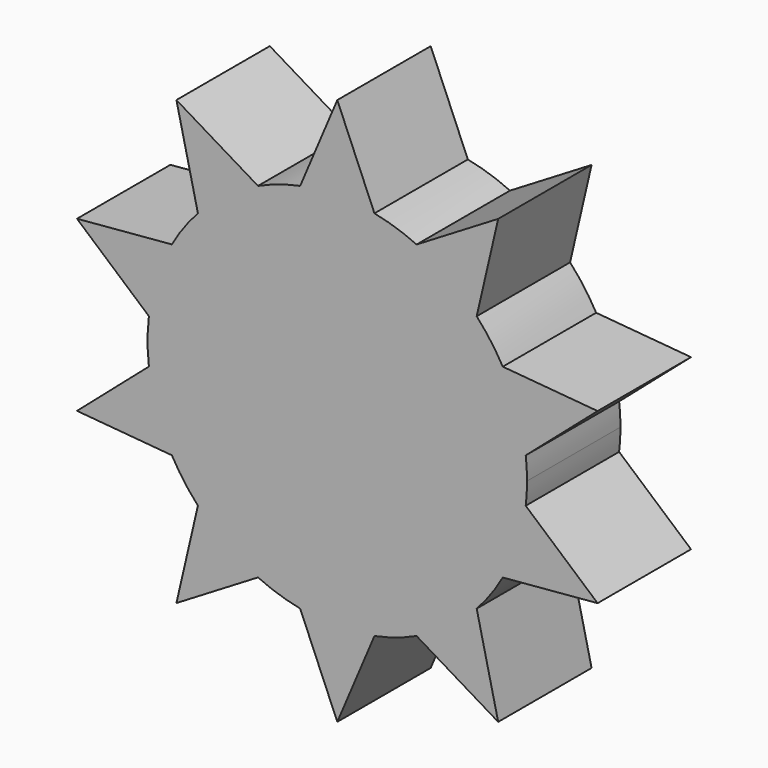
from build123d import *

# Parameters (mm, degrees)
F1_DEPTH = 2.54


with BuildPart() as f1:
    # F0 (on Front) → F1 (new body)
    with BuildSketch(Plane.XZ):
        with BuildLine():
            ThreePointArc((10.4492020023, 5.8675073116), (10.4704194273, 6.1083390955), (10.4775, 6.35))
            ThreePointArc((10.4775, 6.35), (10.4704194273, 6.5916609045), (10.4492020023, 6.8324926884))
            Line((10.4492020023, 6.8324926884), (9.9499261698, 8.3691056985))
            ThreePointArc((9.9499261698, 8.3691056985), (9.6892176443, 8.7760836288), (9.3827219966, 9.1497952677))
            Line((9.3827219966, 9.1497952677), (8.0756008975, 10.0994743355))
            ThreePointArc((8.0756008975, 10.0994743355), (7.6254676443, 10.275485771), (7.1578452667, 10.3976712163))
            Line((7.1578452667, 10.3976712163), (5.5421547333, 10.3976712163))
            ThreePointArc((5.5421547333, 10.3976712163), (5.0745323557, 10.275485771), (4.6243991025, 10.0994743355))
            Line((4.6243991025, 10.0994743355), (3.3172780034, 9.1497952677))
            ThreePointArc((3.3172780034, 9.1497952677), (3.0107823557, 8.7760836288), (2.7500738302, 8.3691056985))
            Line((2.7500738302, 8.3691056985), (2.2507979977, 6.8324926884))
            ThreePointArc((2.2507979977, 6.8324926884), (2.2225, 6.35), (2.2507979977, 5.8675073116))
            Line((2.2507979977, 5.8675073116), (2.7500738302, 4.3308943015))
            ThreePointArc((2.7500738302, 4.3308943015), (3.0107823557, 3.9239163712), (3.3172780034, 3.5502047323))
            Line((3.3172780034, 3.5502047323), (4.6243991025, 2.6005256645))
            ThreePointArc((4.6243991025, 2.6005256645), (5.0745323557, 2.424514229), (5.5421547333, 2.3023287837))
            Line((5.5421547333, 2.3023287837), (7.1578452667, 2.3023287837))
            ThreePointArc((7.1578452667, 2.3023287837), (7.6254676443, 2.424514229), (8.0756008975, 2.6005256645))
            Line((8.0756008975, 2.6005256645), (9.3827219966, 3.5502047323))
            ThreePointArc((9.3827219966, 3.5502047323), (9.6892176443, 3.9239163712), (9.9499261698, 4.3308943015))
            Line((9.9499261698, 4.3308943015), (10.4492020023, 5.8675073116))
        make_face()
        with BuildLine():
            Line((9.9499261698, 8.3691056985), (10.4492020023, 6.8324926884))
            ThreePointArc((10.4492020023, 6.8324926884), (10.275485771, 7.6254676443), (9.9499261698, 8.3691056985))
        make_face()
        with BuildLine():
            ThreePointArc((9.9499261698, 8.3691056985), (10.275485771, 7.6254676443), (10.4492020023, 6.8324926884))
            Line((10.4492020023, 6.8324926884), (12.0136955455, 8.1902462362))
            Line((12.0136955455, 8.1902462362), (9.9499261698, 8.3691056985))
        make_face()
        with BuildLine():
            Line((12.0136955455, 4.5097537638), (10.4492020023, 5.8675073116))
            ThreePointArc((10.4492020023, 5.8675073116), (10.275485771, 5.0745323557), (9.9499261698, 4.3308943015))
            Line((9.9499261698, 4.3308943015), (12.0136955455, 4.5097537638))
        make_face()
        with BuildLine():
            ThreePointArc((9.9499261698, 4.3308943015), (10.275485771, 5.0745323557), (10.4492020023, 5.8675073116))
            Line((10.4492020023, 5.8675073116), (9.9499261698, 4.3308943015))
        make_face()
        with BuildLine():
            Line((8.0756008975, 10.0994743355), (9.3827219966, 9.1497952677))
            ThreePointArc((9.3827219966, 9.1497952677), (8.7760836288, 9.6892176443), (8.0756008975, 10.0994743355))
        make_face()
        with BuildLine():
            ThreePointArc((8.0756008975, 10.0994743355), (8.7760836288, 9.6892176443), (9.3827219966, 9.1497952677))
            Line((9.3827219966, 9.1497952677), (9.8503563491, 11.1678271941))
            Line((9.8503563491, 11.1678271941), (8.0756008975, 10.0994743355))
        make_face()
        with BuildLine():
            Line((9.8503563491, 1.5321728059), (9.3827219966, 3.5502047323))
            ThreePointArc((9.3827219966, 3.5502047323), (8.7760836288, 3.0107823557), (8.0756008975, 2.6005256645))
            Line((8.0756008975, 2.6005256645), (9.8503563491, 1.5321728059))
        make_face()
        with BuildLine():
            ThreePointArc((8.0756008975, 2.6005256645), (8.7760836288, 3.0107823557), (9.3827219966, 3.5502047323))
            Line((9.3827219966, 3.5502047323), (8.0756008975, 2.6005256645))
        make_face()
        with BuildLine():
            Line((5.5421547333, 10.3976712163), (7.1578452667, 10.3976712163))
            ThreePointArc((7.1578452667, 10.3976712163), (6.35, 10.4775), (5.5421547333, 10.3976712163))
        make_face()
        with BuildLine():
            ThreePointArc((5.5421547333, 10.3976712163), (6.35, 10.4775), (7.1578452667, 10.3976712163))
            Line((7.1578452667, 10.3976712163), (6.35, 12.3051619157))
            Line((6.35, 12.3051619157), (5.5421547333, 10.3976712163))
        make_face()
        with BuildLine():
            Line((6.35, 0.3948380843), (7.1578452667, 2.3023287837))
            ThreePointArc((7.1578452667, 2.3023287837), (6.35, 2.2225), (5.5421547333, 2.3023287837))
            Line((5.5421547333, 2.3023287837), (6.35, 0.3948380843))
        make_face()
        with BuildLine():
            ThreePointArc((5.5421547333, 2.3023287837), (6.35, 2.2225), (7.1578452667, 2.3023287837))
            Line((7.1578452667, 2.3023287837), (5.5421547333, 2.3023287837))
        make_face()
        with BuildLine():
            Line((3.3172780034, 9.1497952677), (4.6243991025, 10.0994743355))
            ThreePointArc((4.6243991025, 10.0994743355), (3.9239163712, 9.6892176443), (3.3172780034, 9.1497952677))
        make_face()
        with BuildLine():
            ThreePointArc((3.3172780034, 9.1497952677), (3.9239163712, 9.6892176443), (4.6243991025, 10.0994743355))
            Line((4.6243991025, 10.0994743355), (2.8496436509, 11.1678271941))
            Line((2.8496436509, 11.1678271941), (3.3172780034, 9.1497952677))
        make_face()
        with BuildLine():
            Line((2.8496436509, 1.5321728059), (4.6243991025, 2.6005256645))
            ThreePointArc((4.6243991025, 2.6005256645), (3.9239163712, 3.0107823557), (3.3172780034, 3.5502047323))
            Line((3.3172780034, 3.5502047323), (2.8496436509, 1.5321728059))
        make_face()
        with BuildLine():
            ThreePointArc((3.3172780034, 3.5502047323), (3.9239163712, 3.0107823557), (4.6243991025, 2.6005256645))
            Line((4.6243991025, 2.6005256645), (3.3172780034, 3.5502047323))
        make_face()
        with BuildLine():
            Line((2.2507979977, 6.8324926884), (2.7500738302, 8.3691056985))
            ThreePointArc((2.7500738302, 8.3691056985), (2.424514229, 7.6254676443), (2.2507979977, 6.8324926884))
        make_face()
        with BuildLine():
            ThreePointArc((2.2507979977, 6.8324926884), (2.424514229, 7.6254676443), (2.7500738302, 8.3691056985))
            Line((2.7500738302, 8.3691056985), (0.6863044545, 8.1902462362))
            Line((0.6863044545, 8.1902462362), (2.2507979977, 6.8324926884))
        make_face()
        with BuildLine():
            Line((0.6863044545, 4.5097537638), (2.7500738302, 4.3308943015))
            ThreePointArc((2.7500738302, 4.3308943015), (2.424514229, 5.0745323557), (2.2507979977, 5.8675073116))
            Line((2.2507979977, 5.8675073116), (0.6863044545, 4.5097537638))
        make_face()
        with BuildLine():
            ThreePointArc((2.2507979977, 5.8675073116), (2.424514229, 5.0745323557), (2.7500738302, 4.3308943015))
            Line((2.7500738302, 4.3308943015), (2.2507979977, 5.8675073116))
        make_face()
    extrude(amount=F1_DEPTH)


solid = f1.part
